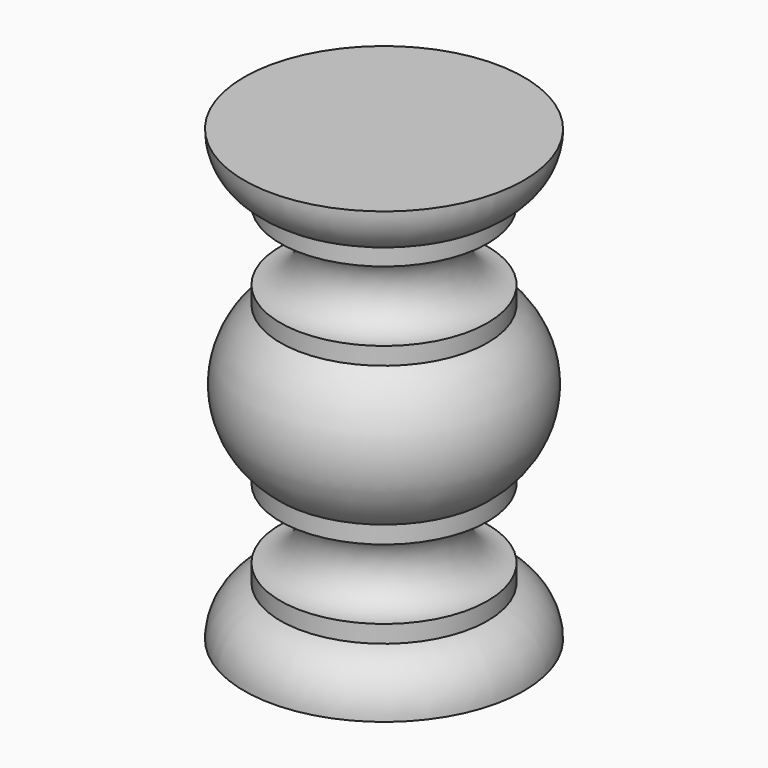
from build123d import *


with BuildPart() as f1:
    # F0 (on Front) → F1 (revolve)
    with BuildSketch(Plane.XZ):
        with BuildLine():
            Line((40, 250), (0, 250))
            Line((0, 250), (0, 121.458379))
            Line((0, 121.458379), (40, 121.458379))
            ThreePointArc((40, 121.458379), (37.130525, 130.281663), (29.619953, 135.729189))
            Line((29.619953, 135.729189), (29.619953, 140.729189))
            ThreePointArc((29.619953, 140.729189), (19.619953, 150.729189), (29.619953, 160.729189))
            Line((29.619953, 160.729189), (29.619953, 165.729189))
            ThreePointArc((29.619953, 165.729189), (39.324421, 185.729189), (29.619953, 205.729189))
            Line((29.619953, 205.729189), (29.619953, 210.729189))
            ThreePointArc((29.619953, 210.729189), (19.619953, 220.729189), (29.619953, 230.729189))
            Line((29.619953, 230.729189), (29.619953, 235.729189))
            ThreePointArc((29.619953, 235.729189), (37.130525, 241.176715), (40, 250))
        make_face()
    revolve(axis=Axis((0, 0, 125), (0, 0, 1)))


solid = f1.part
